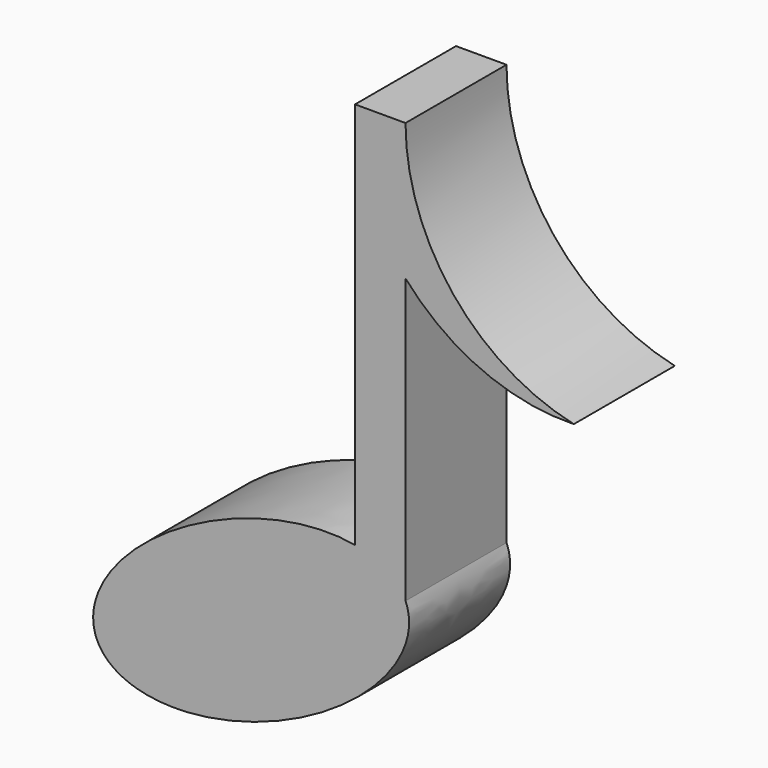
from build123d import *

# Parameters (mm, degrees)
F1_DEPTH = 15
F2_DEPTH = 15
F4_R     = 6.5
F5_DEPTH = 12.5
F6_R     = 5


with BuildPart() as f1:
    # F0 (on Front) → F1 (new body)
    with BuildSketch(Plane.XZ):
        with BuildLine():
            add(Edge.make_bspline(
                [(12.345655, 11.864802), (-30.375552, 19.744474), (-18.345655, -7.96473)],
                knots=[3.780961, 3.780961, 3.780961, 6.283185, 6.283185, 6.283185], degree=2, weights=[1, 0.314267, 1]))
            add(Edge.make_bspline(
                [(-18.345655, -7.96473), (-14.36329, -17.137558), (3.982365, -9.172828), (22.328021, -1.208097), (18.345655, 7.96473)],
                knots=[0, 0, 0, 1.570796, 1.570796, 3.141593, 3.141593, 3.141593], degree=2, weights=[1, 0.707107, 1, 0.707107, 1]))
            Line((18.345655, 7.96473), (12.345655, 7.96473))
            Line((12.345655, 7.96473), (12.345655, 11.864802))
        make_face()
        with BuildLine():
            Line((12.345655, 7.96473), (18.345655, 7.96473))
            add(Edge.make_bspline(
                [(18.345655, 7.96473), (17.027337, 11.001294), (12.345655, 11.864802)],
                knots=[3.141593, 3.141593, 3.141593, 3.780961, 3.780961, 3.780961], degree=2, weights=[1, 0.949335, 1]))
            Line((12.345655, 11.864802), (12.345655, 7.96473))
        make_face()
        with BuildLine():
            add(Edge.make_bspline(
                [(12.345655, 11.864802), (-30.375552, 19.744474), (-18.345655, -7.96473)],
                knots=[3.780961, 3.780961, 3.780961, 6.283185, 6.283185, 6.283185], degree=2, weights=[1, 0.314267, 1]))
            add(Edge.make_bspline(
                [(-18.345655, -7.96473), (-14.36329, -17.137558), (3.982365, -9.172828), (22.328021, -1.208097), (18.345655, 7.96473)],
                knots=[0, 0, 0, 1.570796, 1.570796, 3.141593, 3.141593, 3.141593], degree=2, weights=[1, 0.707107, 1, 0.707107, 1]))
            Line((18.345655, 7.96473), (12.345655, 7.96473))
            Line((12.345655, 7.96473), (12.345655, 11.864802))
        make_face()
        with BuildLine():
            add(Edge.make_bspline(
                [(18.345655, 7.96473), (17.027337, 11.001294), (12.345655, 11.864802)],
                knots=[3.141593, 3.141593, 3.141593, 3.780961, 3.780961, 3.780961], degree=2, weights=[1, 0.949335, 1]))
            Line((18.345655, 7.96473), (18.345655, 41.709554))
            Line((18.345655, 41.709554), (18.345655, 57.96473))
            Line((18.345655, 57.96473), (12.345655, 57.96473))
            Line((12.345655, 57.96473), (12.345655, 11.864802))
        make_face()
    extrude(amount=F1_DEPTH)


with BuildPart() as f2:
    # F0 (on Front) → F2 (new body)
    with BuildSketch(Plane.XZ):
        with BuildLine():
            Line((18.345655, 57.96473), (18.345655, 41.709554))
            ThreePointArc((18.345655, 41.709554), (27.367957, 35.101079), (38.345655, 32.96473))
            ThreePointArc((38.345655, 32.96473), (23.960892, 41.95692), (18.345655, 57.96473))
        make_face()
    extrude(amount=F2_DEPTH)


with BuildPart() as f1_1:
    add(f1.part)

    # F3: union F2
    add(f2.part)

    # F4 (on face) → F5 (cut)
    with BuildSketch(Plane(origin=(0, 0, 0), x_dir=(-1, 0, 0), z_dir=(0, 1, 0))):
        with Locations((-7.80234, 3.341065)):
            Circle(F4_R)
        with Locations((8.818329, -3.569316)):
            Circle(F4_R)
    extrude(amount=-F5_DEPTH, mode=Mode.SUBTRACT)

    # F6
    f6_edges = [f1_1.edges().sort_by_distance(p)[0] for p in [
        (-2.318329, -12.5, -3.569316),
        (14.30234, -12.5, 3.341065),
    ]]
    fillet(f6_edges, radius=F6_R)


solid = f1_1.part
